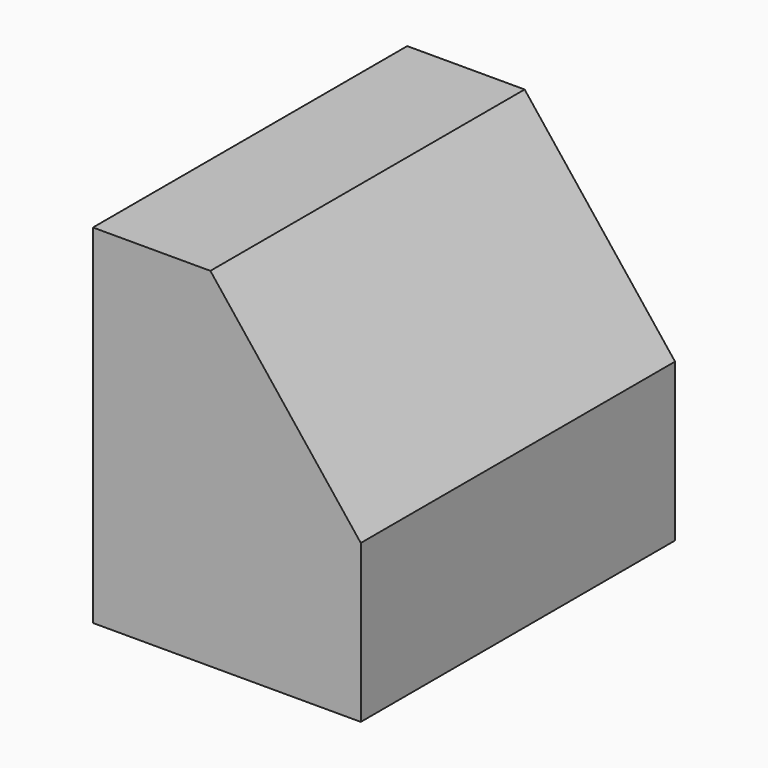
from build123d import *

# Parameters (mm, degrees)
F0_W     = 150
F0_H     = 220
F1_DEPTH = 195
F3_DEPTH = 220


with BuildPart() as f1:
    # F0 (on Top) → F1 (new body)
    with BuildSketch(Plane.XY):
        with Locations((-114.554553, -40.204334)):
            Rectangle(F0_W, F0_H)
    extrude(amount=F1_DEPTH)

    # F2 (on face) → F3 (cut)
    with BuildSketch(Plane.XZ.offset(150.204334)):
        Polygon((-39.554553, 88.231648), (-39.554553, 195), (-123.795393, 195), align=None)
    extrude(amount=-F3_DEPTH, mode=Mode.SUBTRACT)


solid = f1.part
